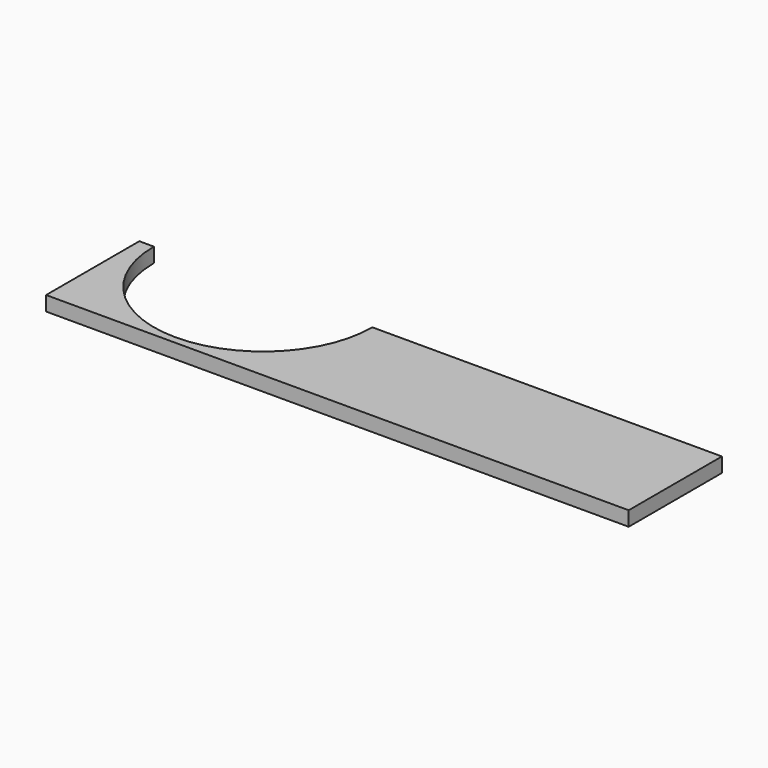
from build123d import *

# Parameters (mm, degrees)
F1_DEPTH = 12.7


with BuildPart() as f1:
    # F0 (on Top) → F1 (new body)
    with BuildSketch(Plane.XY):
        with BuildLine():
            Line((-241.3, 50.8), (-254, 50.8))
            Line((-254, 50.8), (-254, -50.8))
            Line((-254, -50.8), (254, -50.8))
            Line((254, -50.8), (254, 50.8))
            Line((254, 50.8), (-50.8, 50.8))
            ThreePointArc((-50.8, 50.8), (-146.05, -44.45), (-241.3, 50.8))
        make_face()
    extrude(amount=F1_DEPTH)


solid = f1.part
